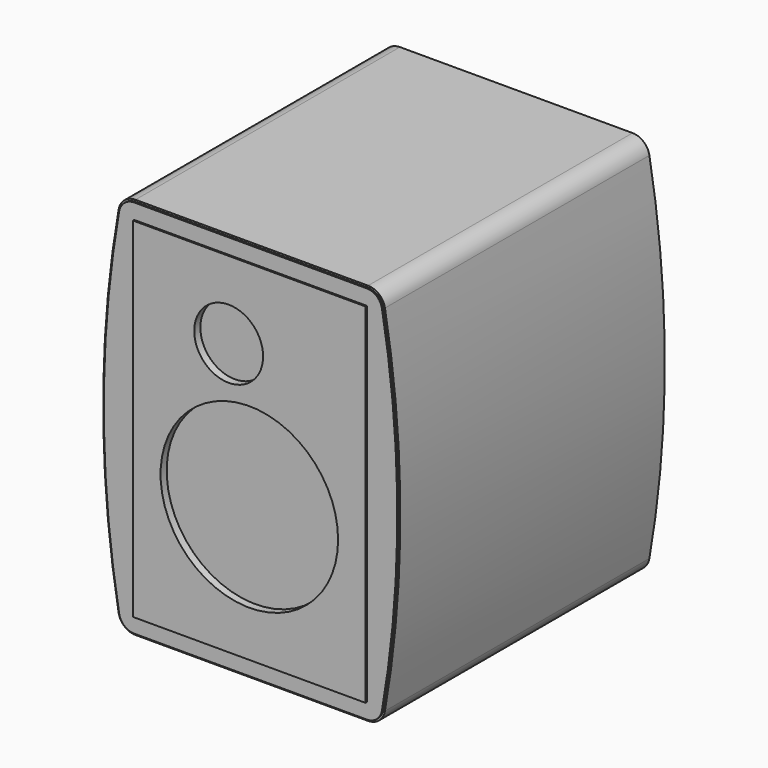
from build123d import *

# Parameters (mm, degrees)
F0_W      = 152
F0_H      = 218
F1_DEPTH  = 228
F2_R      = 58
F2_R_2    = 22.5
F3_DEPTH  = 5
F4_R      = 22.5
F5_DEPTH  = 50
F7_DEPTH  = 25
F10_DEPTH = 216


with BuildPart() as f1:
    # F0 (on Top) → F1 (new body)
    with BuildSketch(Plane.XY):
        with Locations((2.707123, -72.727825)):
            Rectangle(F0_W, F0_H)
    extrude(amount=F1_DEPTH)

    # F2 (on face) → F3 (cut)
    with BuildSketch(Plane.XZ.offset(181.727825)):
        with Locations((2.707123, 88)):
            Circle(F2_R)
        with Locations((-10.792877, 177.5)):
            Circle(F2_R_2)
    extrude(amount=-F3_DEPTH, mode=Mode.SUBTRACT)

    # F4 (on face) → F5 (cut)
    with BuildSketch(Plane(origin=(0, 36.272175, 0), x_dir=(-1, 0, 0), z_dir=(0, 1, 0))):
        with Locations((-2.707123, 165.5)):
            Circle(F4_R)
    extrude(amount=-F5_DEPTH, mode=Mode.SUBTRACT)


with BuildPart() as f7:
    # F6 (on face) → F7 (new body)
    with BuildSketch(Plane(origin=(0, 36.272175, 0), x_dir=(-1, 0, 0), z_dir=(0, 1, 0))):
        with BuildLine():
            ThreePointArc((-78.707123, 238), (-85.140498, 235.655827), (-88.557684, 229.722337))
            ThreePointArc((-88.557684, 229.722337), (-98.598353, 114), (-88.557684, -1.722337))
            ThreePointArc((-88.557684, -1.722337), (-85.140498, -7.655827), (-78.707123, -10))
            Line((-78.707123, -10), (73.292877, -10))
            ThreePointArc((73.292877, -10), (79.726252, -7.655827), (83.143438, -1.722337))
            ThreePointArc((83.143438, -1.722337), (93.184107, 114), (83.143438, 229.722337))
            ThreePointArc((83.143438, 229.722337), (79.726252, 235.655827), (73.292877, 238))
            Line((73.292877, 238), (-78.707123, 238))
        make_face()
        Polygon((73.292877, 0), (-2.707123, 0), (-78.707123, 0), (-78.707123, 228), (-2.707123, 228), (73.292877, 228), align=None, mode=Mode.SUBTRACT)
    extrude(amount=-F7_DEPTH)


with BuildPart() as f8_1:
    # F8: copy of F7
    add(f7.part.moved(Location((0, -192, 0))))


with BuildPart() as f10:
    # F9 (on face) → F10 (new body)
    with BuildSketch(Plane(origin=(0, 36.272175, 0), x_dir=(-1, 0, 0), z_dir=(0, 1, 0))):
        with BuildLine():
            ThreePointArc((-78.707123, 239.2), (-85.912503, 236.574526), (-89.739751, 229.929018))
            ThreePointArc((-89.739751, 229.929018), (-99.798353, 114), (-89.739751, -1.929018))
            ThreePointArc((-89.739751, -1.929018), (-85.912503, -8.574526), (-78.707123, -11.2))
            Line((-78.707123, -11.2), (73.292877, -11.2))
            ThreePointArc((73.292877, -11.2), (80.498257, -8.574526), (84.325505, -1.929018))
            ThreePointArc((84.325505, -1.929018), (94.384107, 114), (84.325505, 229.929018))
            ThreePointArc((84.325505, 229.929018), (80.498257, 236.574526), (73.292877, 239.2))
            Line((73.292877, 239.2), (-78.707123, 239.2))
        make_face()
        with BuildLine():
            ThreePointArc((-88.557684, -1.722337), (-98.598353, 114), (-88.557684, 229.722337))
            ThreePointArc((-88.557684, 229.722337), (-85.140498, 235.655827), (-78.707123, 238))
            Line((-78.707123, 238), (73.292877, 238))
            ThreePointArc((73.292877, 238), (79.726252, 235.655827), (83.143438, 229.722337))
            ThreePointArc((83.143438, 229.722337), (93.184107, 114), (83.143438, -1.722337))
            ThreePointArc((83.143438, -1.722337), (79.726252, -7.655827), (73.292877, -10))
            Line((73.292877, -10), (-78.707123, -10))
            ThreePointArc((-78.707123, -10), (-85.140498, -7.655827), (-88.557684, -1.722337))
        make_face(mode=Mode.SUBTRACT)
    extrude(amount=-F10_DEPTH)


solid = Compound([f1.part, f7.part, f8_1.part, f10.part])
